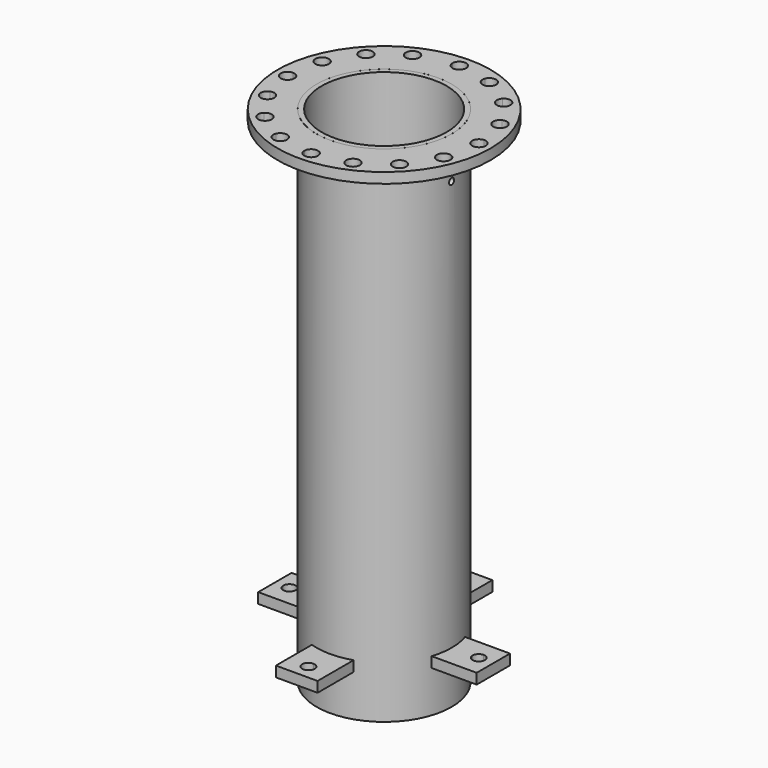
from build123d import *

# Parameters (mm, degrees)
F0_R      = 161.95
F0_R_2    = 150
F1_DEPTH  = 1200
F2_R      = 161.95
F3_DEPTH  = 10
F5_DEPTH  = 373
F7_DEPTH  = 426
F9_R      = 255.524
F9_R_2    = 162
F10_DEPTH = 25
F12_DEPTH = 25
F14_COUNT = 4


with BuildPart() as f1:
    # F0 (on Top) → F1 (new body)
    with BuildSketch(Plane.XY):
        Circle(F0_R)
        Circle(F0_R_2, mode=Mode.SUBTRACT)
    extrude(amount=F1_DEPTH)

    # F2 (on Top) → F3 (join)
    with BuildSketch(Plane.XY):
        Circle(F2_R)
    extrude(amount=-F3_DEPTH)

    # F4 (on Right) → F5 (cut)
    with BuildSketch(Plane.YZ):
        with BuildLine():
            ThreePointArc((0, 1092.5), (5.303301, 1094.696699), (7.5, 1100))
            ThreePointArc((7.5, 1100), (-5.303301, 1105.303301), (0, 1092.5))
        make_face()
    extrude(amount=F5_DEPTH, mode=Mode.SUBTRACT)

    # F6 (on Right) → F7 (cut)
    with BuildSketch(Plane.YZ):
        with BuildLine():
            ThreePointArc((0, 592.5), (5.303301, 594.696699), (7.5, 600))
            ThreePointArc((7.5, 600), (-5.303301, 605.303301), (0, 592.5))
        make_face()
    extrude(amount=-F7_DEPTH, mode=Mode.SUBTRACT)


with BuildPart() as f10:
    # F9 (on offset) → F10 (new body)
    with BuildSketch(Plane.XY.offset(1200)):
        Circle(F9_R)
        with BuildLine():
            ThreePointArc((213.352227, 72.782262), (220.634325, 46.22689), (224.624403, 18.98178))
            ThreePointArc((224.624403, 18.98178), (236.709482, 14.478099), (241.787481, 2.62288))
            ThreePointArc((241.787481, 2.62288), (236.846656, -9.100061), (225.005271, -13.749865))
            ThreePointArc((225.005271, -13.749865), (221.650238, -41.080443), (214.988028, -67.798072))
            ThreePointArc((214.988028, -67.798072), (222.879905, -73.785869), (225.875906, -83.228296))
            ThreePointArc((225.875906, -83.228296), (218.44825, -96.944212), (202.902485, -98.219205))
            ThreePointArc((202.902485, -98.219205), (189.413651, -122.22479), (173.098633, -144.406696))
            ThreePointArc((173.098633, -144.406696), (177.114226, -149.921257), (178.534915, -156.593363))
            ThreePointArc((178.534915, -156.593363), (168.281542, -171.782916), (150.359782, -167.953465))
            ThreePointArc((150.359782, -167.953465), (128.760775, -185.032682), (105.240568, -199.351081))
            ThreePointArc((105.240568, -199.351081), (106.455004, -202.816766), (106.866716, -206.465919))
            ThreePointArc((106.866716, -206.465919), (93.555733, -222.55397), (75.259746, -212.490944))
            ThreePointArc((75.259746, -212.490944), (48.7909, -220.081527), (21.59406, -224.38834))
            ThreePointArc((21.59406, -224.38834), (21.615872, -224.875935), (21.623145, -225.363964))
            ThreePointArc((21.623145, -225.363964), (5.138432, -241.741355), (-11.130938, -225.150023))
            ThreePointArc((-11.130938, -225.150023), (-38.498703, -222.113215), (-65.29204, -215.762323))
            ThreePointArc((-65.29204, -215.762323), (-86.654352, -225.742305), (-95.851732, -204.031556))
            ThreePointArc((-95.851732, -204.031556), (-120.012639, -190.822947), (-142.382872, -174.767126))
            ThreePointArc((-142.382872, -174.767126), (-165.935109, -175.88094), (-166.19262, -152.303787))
            ThreePointArc((-166.19262, -152.303787), (-183.521991, -130.904964), (-198.113085, -107.552946))
            ThreePointArc((-198.113085, -107.552946), (-220.321883, -99.633495), (-211.600893, -77.72704))
            ThreePointArc((-211.600893, -77.72704), (-219.498935, -51.348304), (-224.121898, -24.203416))
            ThreePointArc((-224.121898, -24.203416), (-241.655441, -8.438794), (-225.264294, 8.510505))
            ThreePointArc((-225.264294, 8.510505), (-222.546123, 35.911751), (-216.507408, 62.777168))
            ThreePointArc((-216.507408, 62.777168), (-226.735271, 84.021915), (-205.133005, 93.471283))
            ThreePointArc((-205.133005, 93.471283), (-192.206409, 117.784239), (-176.411958, 140.339772))
            ThreePointArc((-176.411958, 140.339772), (-177.799733, 163.877455), (-154.227173, 164.409275))
            ThreePointArc((-154.227173, 164.409275), (-133.03143, 181.986454), (-109.850764, 196.848267))
            ThreePointArc((-109.850764, 196.848267), (-102.190254, 219.147707), (-80.183811, 210.682195))
            ThreePointArc((-80.183811, 210.682195), (-48.7909, 220.081527), (-16.366931, 224.830056))
            ThreePointArc((-16.366931, 224.830056), (-0.297521, 241.800038), (16.37774, 225.425))
            ThreePointArc((16.37774, 225.425), (16.375038, 225.127479), (16.366931, 224.830056))
            ThreePointArc((16.366931, 224.830056), (43.656622, 221.157252), (70.294926, 214.184626))
            ThreePointArc((70.294926, 214.184626), (88.53959, 224.638245), (102.037969, 208.515601))
            ThreePointArc((102.037969, 208.515601), (101.667635, 205.052464), (100.573381, 201.745943))
            ThreePointArc((100.573381, 201.745943), (124.420395, 187.978711), (146.410969, 171.406706))
            ThreePointArc((146.410969, 171.406706), (164.416723, 175.583975), (174.847245, 160.324192))
            ThreePointArc((174.847245, 160.324192), (173.503175, 153.826567), (169.691572, 148.395421))
            ThreePointArc((169.691572, 148.395421), (186.518322, 126.599155), (200.562089, 102.913941))
            ThreePointArc((200.562089, 102.913941), (216.294697, 101.899689), (223.882547, 88.080565))
            ThreePointArc((223.882547, 88.080565), (220.995506, 78.794477), (213.352227, 72.782262))
        make_face(mode=Mode.SUBTRACT)
        with BuildLine():
            ThreePointArc((225.005271, -13.749865), (209.033109, 2.43232), (224.624403, 18.98178))
            ThreePointArc((224.624403, 18.98178), (220.634325, 46.22689), (213.352227, 72.782262))
            ThreePointArc((213.352227, 72.782262), (192.429017, 81.681272), (200.562089, 102.913941))
            ThreePointArc((200.562089, 102.913941), (186.518322, 126.599155), (169.691572, 148.395421))
            ThreePointArc((169.691572, 148.395421), (146.956264, 148.676203), (146.410969, 171.406706))
            ThreePointArc((146.410969, 171.406706), (124.420395, 187.978711), (100.573381, 201.745943))
            ThreePointArc((100.573381, 201.745943), (79.43678, 193.366374), (70.294926, 214.184626))
            ThreePointArc((70.294926, 214.184626), (43.656622, 221.157252), (16.366931, 224.830056))
            ThreePointArc((16.366931, 224.830056), (0, 209.04726), (-16.366931, 224.830056))
            ThreePointArc((-16.366931, 224.830056), (-48.7909, 220.081527), (-80.183811, 210.682195))
            ThreePointArc((-80.183811, 210.682195), (-79.217442, 207.558171), (-78.890981, 204.304433))
            ThreePointArc((-78.890981, 204.304433), (-91.434046, 188.381944), (-109.850764, 196.848267))
            ThreePointArc((-109.850764, 196.848267), (-133.03143, 181.986454), (-154.227173, 164.409275))
            ThreePointArc((-154.227173, 164.409275), (-150.639768, 159.078423), (-149.379293, 152.777736))
            ThreePointArc((-149.379293, 152.777736), (-158.911349, 137.899329), (-176.411958, 140.339772))
            ThreePointArc((-176.411958, 140.339772), (-192.206409, 117.784239), (-205.133005, 93.471283))
            ThreePointArc((-205.133005, 93.471283), (-197.767226, 87.440024), (-195.000337, 78.330957))
            ThreePointArc((-195.000337, 78.330957), (-201.78059, 65.059989), (-216.507408, 62.777168))
            ThreePointArc((-216.507408, 62.777168), (-222.546123, 35.911751), (-225.264294, 8.510505))
            ThreePointArc((-225.264294, 8.510505), (-213.698601, 3.705322), (-208.909937, -7.867219))
            ThreePointArc((-208.909937, -7.867219), (-213.301785, -19.028257), (-224.121898, -24.203416))
            ThreePointArc((-224.121898, -24.203416), (-219.498935, -51.348304), (-211.600893, -77.72704))
            ThreePointArc((-211.600893, -77.72704), (-196.270589, -79.287304), (-189.02134, -92.885136))
            ThreePointArc((-189.02134, -92.885136), (-191.478618, -101.513643), (-198.113085, -107.552946))
            ThreePointArc((-198.113085, -107.552946), (-183.521991, -130.904964), (-166.19262, -152.303787))
            ThreePointArc((-166.19262, -152.303787), (-148.373756, -148.859949), (-138.318281, -163.968203))
            ThreePointArc((-138.318281, -163.968203), (-139.368074, -169.737467), (-142.382872, -174.767126))
            ThreePointArc((-142.382872, -174.767126), (-120.012639, -190.822947), (-95.851732, -204.031556))
            ThreePointArc((-95.851732, -204.031556), (-77.508442, -194.40575), (-64.407355, -210.452368))
            ThreePointArc((-64.407355, -210.452368), (-64.63004, -213.143942), (-65.29204, -215.762323))
            ThreePointArc((-65.29204, -215.762323), (-38.498703, -222.113215), (-11.130938, -225.150023))
            ThreePointArc((-11.130938, -225.150023), (4.864312, -208.990658), (21.59406, -224.38834))
            ThreePointArc((21.59406, -224.38834), (48.7909, -220.081527), (75.259746, -212.490944))
            ThreePointArc((75.259746, -212.490944), (83.914705, -191.465608), (105.240568, -199.351081))
            ThreePointArc((105.240568, -199.351081), (128.760775, -185.032682), (150.359782, -167.953465))
            ThreePointArc((150.359782, -167.953465), (150.376014, -145.216429), (173.098633, -144.406696))
            ThreePointArc((173.098633, -144.406696), (189.413651, -122.22479), (202.902485, -98.219205))
            ThreePointArc((202.902485, -98.219205), (194.277553, -77.181533), (214.988028, -67.798072))
            ThreePointArc((214.988028, -67.798072), (221.650238, -41.080443), (225.005271, -13.749865))
        make_face()
        Circle(F9_R_2, mode=Mode.SUBTRACT)
    extrude(amount=-F10_DEPTH)


with BuildPart() as f12:
    # F11 (on face) → F12 (new body)
    with BuildSketch(Plane(origin=(0, 0, -10), x_dir=(1, 0, 0), z_dir=(0, 0, -1))):
        with BuildLine():
            ThreePointArc((0, 162), (25.310838, 160.010504), (50, 154.090882))
            Line((50, 154.090882), (50, 262))
            Line((50, 262), (0, 262))
            Line((0, 262), (0, 242))
            ThreePointArc((0, 242), (10.606602, 237.606602), (15, 227))
            ThreePointArc((15, 227), (10.606602, 216.393398), (0, 212))
            Line((0, 212), (0, 162))
        make_face()
        with BuildLine():
            ThreePointArc((-50, 154.090882), (-25.310838, 160.010504), (0, 162))
            Line((0, 162), (0, 212))
            ThreePointArc((0, 212), (-15, 227), (0, 242))
            Line((0, 242), (0, 262))
            Line((0, 262), (-50, 262))
            Line((-50, 262), (-50, 154.090882))
        make_face()
    extrude(amount=-F12_DEPTH)


with BuildPart() as f12_1:
    # F13: moved
    add(f12.part.moved(Location((0, 0, 100))))


with BuildPart() as f14_1:
    # F14: instance of F12
    add(f12_1.part.rotate(Axis((0, 0, -10), (0, 0, 1)), 1 * 360 / F14_COUNT))


with BuildPart() as f14_2:
    # F14: instance of F12
    add(f12_1.part.rotate(Axis((0, 0, -10), (0, 0, 1)), 2 * 360 / F14_COUNT))


with BuildPart() as f14_3:
    # F14: instance of F12
    add(f12_1.part.rotate(Axis((0, 0, -10), (0, 0, 1)), 3 * 360 / F14_COUNT))


solid = Compound([f1.part, f10.part, f12_1.part, f14_1.part, f14_2.part, f14_3.part])
